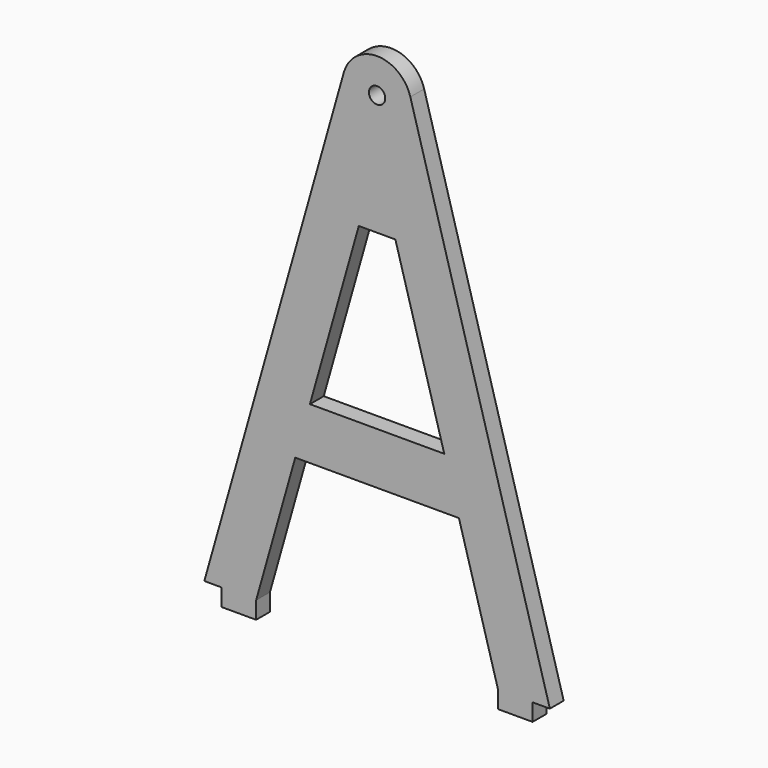
from build123d import *

# Parameters (mm, degrees)
F0_R     = 3
F1_DEPTH = 6.35
F2_W     = 12.7
F2_H     = 6.35
F3_DEPTH = 6.35


with BuildPart() as f1:
    # F0 (on Front) → F1 (new body)
    with BuildSketch(Plane.XZ):
        with BuildLine():
            Line((63.5, 0), (12.220363, 181.257272))
            ThreePointArc((12.220363, 181.257272), (0, 190.5), (-12.220363, 181.257272))
            Line((-12.220363, 181.257272), (-63.5, 0))
            Line((-63.5, 0), (-44.45, 0))
            Line((-44.45, 0), (-30.078132, 50.8))
            Line((-30.078132, 50.8), (30.078132, 50.8))
            Line((30.078132, 50.8), (44.45, 0))
            Line((44.45, 0), (63.5, 0))
        make_face()
        Polygon((24.688682, 69.85), (-24.688682, 69.85), (-6.723847, 133.35), (6.723847, 133.35), align=None, mode=Mode.SUBTRACT)
        with Locations((0, 177.8)):
            Circle(F0_R, mode=Mode.SUBTRACT)
    extrude(amount=F1_DEPTH)

    # F2 (on face) → F3 (join)
    with BuildSketch(Plane(origin=(0, 0, 0), x_dir=(1, 0, 0), z_dir=(0, 0, -1))):
        with Locations((-50.8, 3.175)):
            Rectangle(F2_W, F2_H)
        with Locations((50.8, 3.175)):
            Rectangle(F2_W, F2_H)
    extrude(amount=F3_DEPTH)


solid = f1.part
